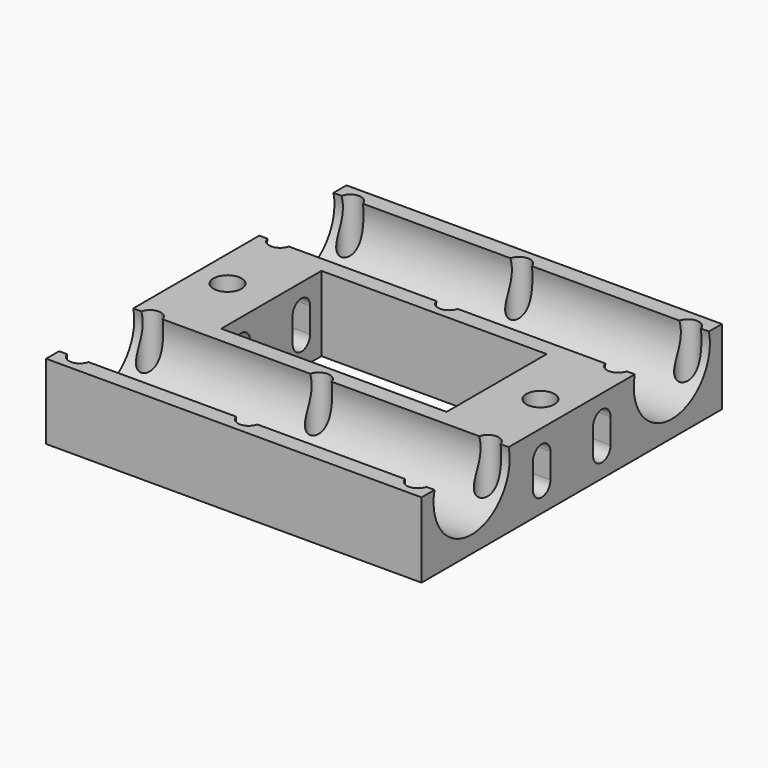
from build123d import *

# Parameters (mm, degrees)
SKETCH_W        = 60
SKETCH_H        = 60
PAD_DEPTH       = 12
SKETCH001_R     = 1.75
SKETCH001_R_2   = 2.25
POCKET_DEPTH    = 12.001
SKETCH002_R     = 7.6
POCKET001_DEPTH = 60.001
SKETCH003_W     = 36
SKETCH003_H     = 20
POCKET002_DEPTH = 12.001
POCKET003_DEPTH = 60.001


with BuildPart() as part:
    # Sketch → Pad (new body)
    with BuildSketch(Plane.XY):
        Rectangle(SKETCH_W, SKETCH_H)
    extrude(amount=PAD_DEPTH)

    # Sketch001 → Pocket (cut, through all)
    with BuildSketch(Plane(origin=(0, 0, 0), x_dir=(1, 0, 0), z_dir=(0, 0, -1))):
        with Locations((-27, 27)):
            Circle(SKETCH001_R)
        with Locations((27, 27)):
            Circle(SKETCH001_R)
        with Locations((-27, 13)):
            Circle(SKETCH001_R)
        with Locations((27, 13)):
            Circle(SKETCH001_R)
        with Locations((-27, -13)):
            Circle(SKETCH001_R)
        with Locations((-27, -27)):
            Circle(SKETCH001_R)
        with Locations((27, -13)):
            Circle(SKETCH001_R)
        with Locations((27, -27)):
            Circle(SKETCH001_R)
        with Locations((0, 27)):
            Circle(SKETCH001_R)
        with Locations((0, 13)):
            Circle(SKETCH001_R)
        with Locations((0, -13)):
            Circle(SKETCH001_R)
        with Locations((0, -27)):
            Circle(SKETCH001_R)
        with Locations((-25, 0)):
            Circle(SKETCH001_R_2)
        with Locations((25, 0)):
            Circle(SKETCH001_R_2)
    extrude(amount=-POCKET_DEPTH, mode=Mode.SUBTRACT)

    # Sketch002 → Pocket001 (cut, through all)
    with BuildSketch(Plane(origin=(-30, 0, 0), x_dir=(0, -1, 0), z_dir=(-1, 0, 0))):
        with Locations((-20, 10.3)):
            Circle(SKETCH002_R)
        with Locations((20, 10.3)):
            Circle(SKETCH002_R)
    extrude(amount=-POCKET001_DEPTH, mode=Mode.SUBTRACT)

    # Sketch003 → Pocket002 (cut, through all)
    with BuildSketch(Plane.XY.offset(12)):
        Rectangle(SKETCH003_W, SKETCH003_H)
    extrude(amount=-POCKET002_DEPTH, mode=Mode.SUBTRACT)

    # Sketch004 → Pocket003 (cut, through all)
    with BuildSketch(Plane(origin=(-30, 0, 0), x_dir=(0, -1, 0), z_dir=(-1, 0, 0))):
        with BuildLine():
            ThreePointArc((-7.748793, 4.000005), (-6, 2.251207), (-4.251207, 4.000005))
            Line((-4.251207, 7.999989), (-4.251207, 4.000005))
            ThreePointArc((-4.251207, 7.999989), (-6, 9.748793), (-7.748793, 7.999989))
            Line((-7.748793, 4.000005), (-7.748793, 7.999989))
        make_face()
        with BuildLine():
            ThreePointArc((4.251207, 4), (6, 2.251207), (7.748793, 4))
            Line((7.748793, 8), (7.748793, 4))
            ThreePointArc((7.748793, 8), (6, 9.748793), (4.251207, 8))
            Line((4.251207, 8), (4.251207, 4))
        make_face()
    extrude(amount=-POCKET003_DEPTH, mode=Mode.SUBTRACT)


solid = part.part
